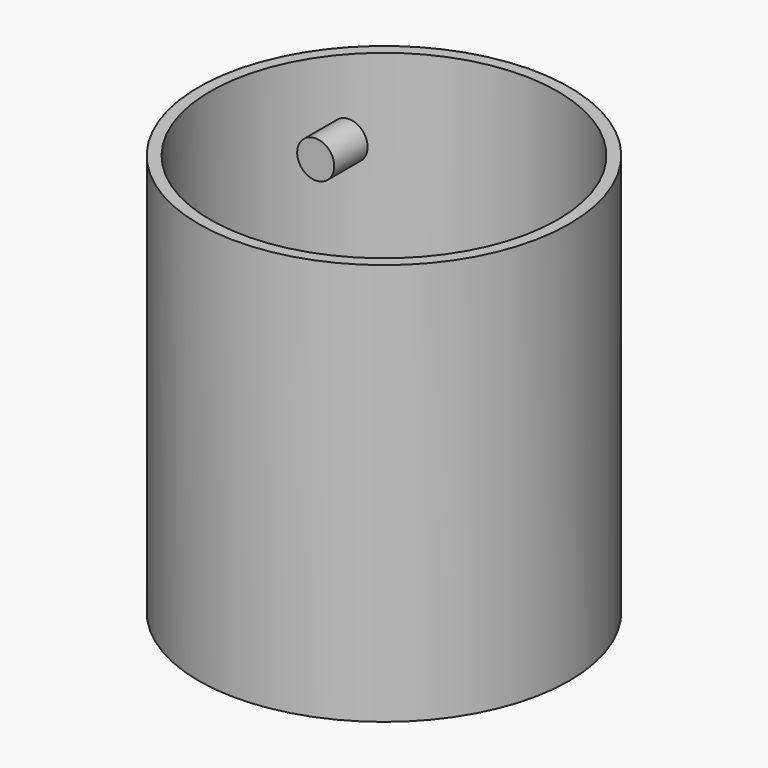
from build123d import *

# Parameters (mm, degrees)
F0_R     = 40
F0_R_2   = 37.5
F2_DEPTH = 86.8
F1_R     = 37.5
F3_DEPTH = 5
F4_R     = 4
F5_DEPTH = 1
F6_DEPTH = 9


with BuildPart() as f2:
    # F0 (on Top) → F2 (new body)
    with BuildSketch(Plane.XY):
        Circle(F0_R)
        Circle(F0_R_2, mode=Mode.SUBTRACT)
    extrude(amount=F2_DEPTH)

    # F1 (on face) → F3 (join)
    with BuildSketch(Plane.XY):
        Circle(F1_R)
    extrude(amount=F3_DEPTH)


with BuildPart() as f5:
    # F4 (on Front) → F5 (new body)
    with BuildSketch(Plane.XZ):
        with Locations((-14.7400088608, 81.2715962529)):
            Circle(F4_R)
    extrude(amount=-F5_DEPTH)

    # F6 (add): a face of the model
    f6_faces = [f5.faces().sort_by_distance(p)[0] for p in [
        (-14.7400088608, 0, 81.2715962529),
    ]]
    extrude(f6_faces, amount=-F6_DEPTH)


solid = Compound([f2.part, f5.part])
